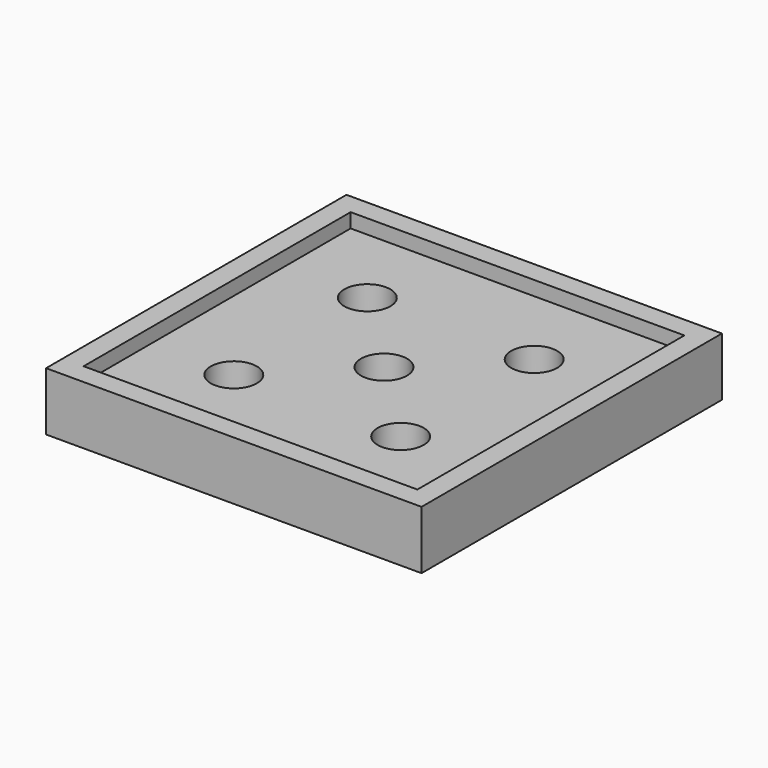
from build123d import *

# Parameters (mm, degrees)
F0_W     = 50.8
F0_H     = 50.8
F0_R     = 3.5052
F1_DEPTH = 6.7056
F0_W_2   = 57.15
F0_H_2   = 57.15
F2_DEPTH = 8.89


with BuildPart() as f1:
    # F0 (on Top) → F1 (new body)
    with BuildSketch(Plane.XY):
        Rectangle(F0_W, F0_H)
        with Locations((-12.7, -12.7)):
            Circle(F0_R, mode=Mode.SUBTRACT)
        with Locations((12.7, -12.7)):
            Circle(F0_R, mode=Mode.SUBTRACT)
        with Locations((-12.7, 12.7)):
            Circle(F0_R, mode=Mode.SUBTRACT)
        Circle(F0_R, mode=Mode.SUBTRACT)
        with Locations((12.7, 12.7)):
            Circle(F0_R, mode=Mode.SUBTRACT)
    extrude(amount=F1_DEPTH)

    # F0 (on Top) → F2 (join)
    with BuildSketch(Plane.XY):
        Rectangle(F0_W_2, F0_H_2)
        Rectangle(F0_W, F0_H, mode=Mode.SUBTRACT)
    extrude(amount=F2_DEPTH)


solid = f1.part
